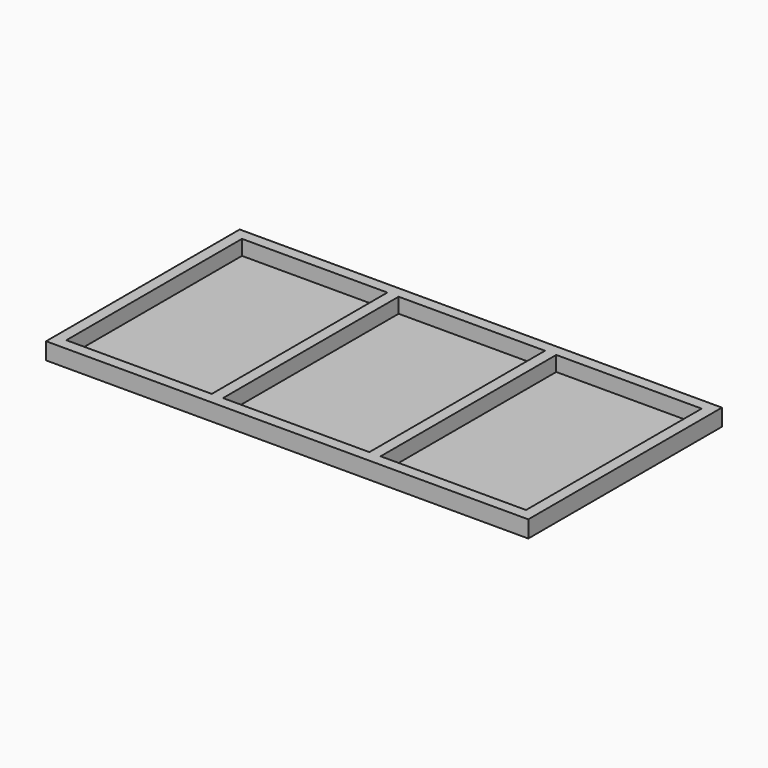
from build123d import *

# Parameters (mm, degrees)
F0_W     = 815.975
F0_H     = 409.575
F1_DEPTH = 3.175
F2_W     = 815.975
F2_H     = 409.575
F2_W_2   = 246.0625
F2_H_2   = 371.475
F2_W_3   = 247.65
F3_DEPTH = 25.4


with BuildPart() as f1:
    # F0 (on Top) → F1 (new body)
    with BuildSketch(Plane.XY):
        Rectangle(F0_W, F0_H)
    extrude(amount=F1_DEPTH)

    # F2 (on face) → F3 (join)
    with BuildSketch(Plane.XY.offset(3.175)):
        Rectangle(F2_W, F2_H)
        with Locations((-265.90625, 0)):
            Rectangle(F2_W_2, F2_H_2, mode=Mode.SUBTRACT)
        Rectangle(F2_W_3, F2_H_2, mode=Mode.SUBTRACT)
        with Locations((265.90625, 0)):
            Rectangle(F2_W_2, F2_H_2, mode=Mode.SUBTRACT)
    extrude(amount=F3_DEPTH)


solid = f1.part
